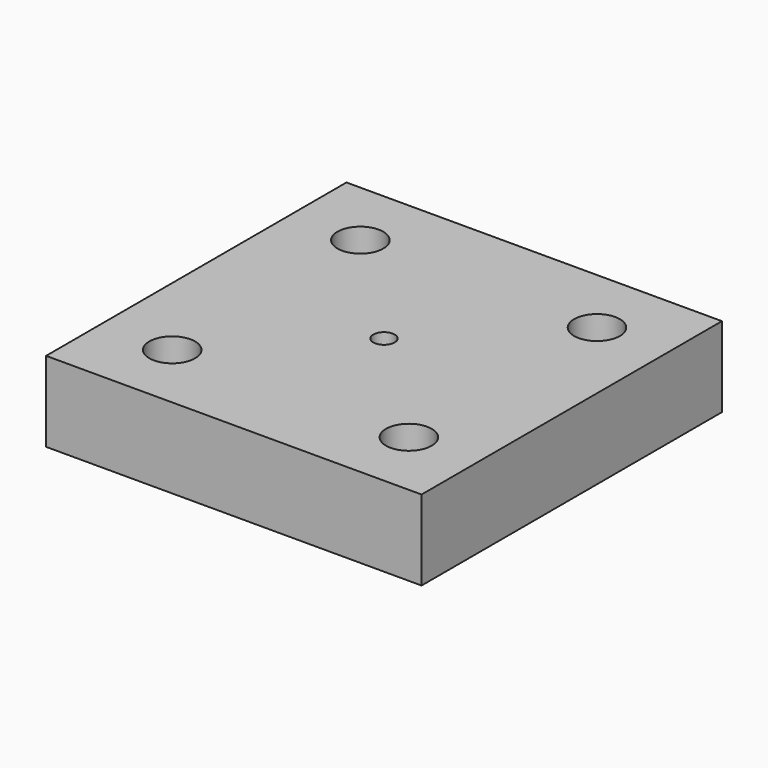
from build123d import *

# Parameters (mm, degrees)
F0_W           = 118.999
F0_H           = 119
F1_DEPTH       = 12.7
F3_D           = 8.255
F3_CBORE_D     = 14.5
F3_CBORE_DEPTH = 9.525
F5_D           = 6.8


with BuildPart() as f1:
    # F0 (on Top) → F1 (new body, symmetric)
    with BuildSketch(Plane.XY):
        Rectangle(F0_W, F0_H)
    extrude(amount=F1_DEPTH, both=True)

    # F3 (through all)
    with Locations(Plane.XY.offset(12.7)):
        with Locations((-37.1149003506, -37.5026), (-37.4969, 37.5036), (37.5031, 37.5036), (37.8850996494, -37.4964)):
            CounterBoreHole(F3_D / 2, F3_CBORE_D / 2, F3_CBORE_DEPTH)

    # F5 (through all)
    with Locations(Plane.XY.offset(12.7)):
        with Locations((0, 0)):
            Hole(F5_D / 2)


solid = f1.part
